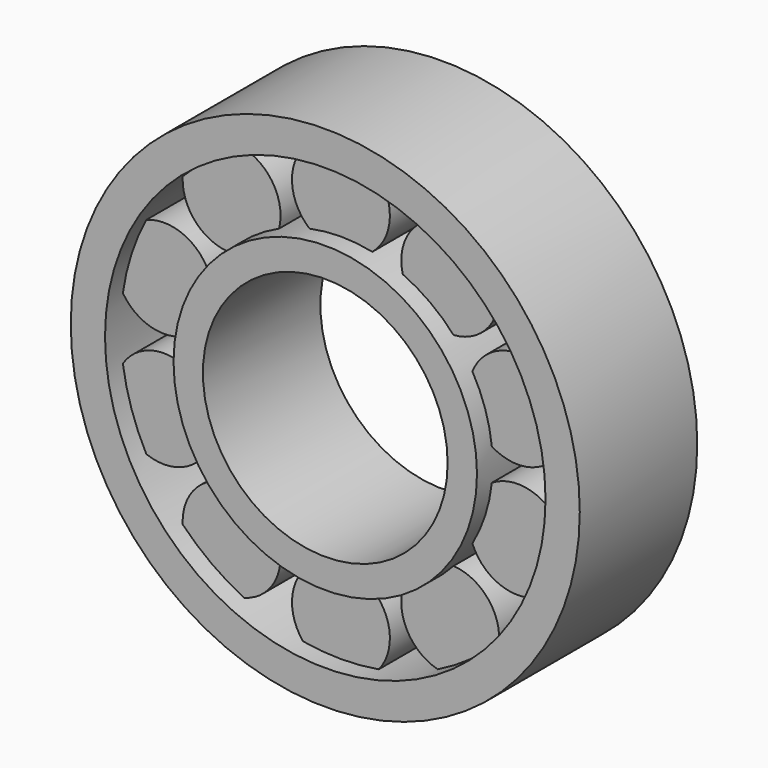
from build123d import *

# Parameters (mm, degrees)
F0_R     = 26
F0_R_2   = 22.5
F1_DEPTH = 15
F2_R     = 15.5
F2_R_2   = 12.5
F3_DEPTH = 15
F5_R     = 5
F6_DEPTH = 5.5


with BuildPart() as f1:
    # F0 (on Front) → F1 (new body)
    with BuildSketch(Plane.XZ):
        Circle(F0_R)
        Circle(F0_R_2, mode=Mode.SUBTRACT)
    extrude(amount=F1_DEPTH)



with BuildPart() as f3:
    # F2 (on Front) → F3 (new body)
    with BuildSketch(Plane.XZ):
        Circle(F2_R)
        Circle(F2_R_2, mode=Mode.SUBTRACT)
    extrude(amount=F3_DEPTH)


with BuildPart() as f1_1:
    add(f1.part)

    add(f3.part)  # F6 merges F3
    # F5 (on offset) → F6 (join, symmetric)
    with BuildSketch(Plane.XZ.offset(7.5)):
        with Locations((-11.1679197936, 15.3713228931)):
            Circle(F5_R)
        with Locations((0, 19)):
            Circle(F5_R)
        with Locations((-18.0700738096, 5.8713228931)):
            Circle(F5_R)
        with Locations((-18.0700738096, -5.8713228931)):
            Circle(F5_R)
        with Locations((-11.1679197936, -15.3713228931)):
            Circle(F5_R)
        with Locations((0, -19)):
            Circle(F5_R)
        with Locations((11.1679197936, -15.3713228931)):
            Circle(F5_R)
        with Locations((18.0700738096, -5.8713228931)):
            Circle(F5_R)
        with Locations((18.0700738096, 5.8713228931)):
            Circle(F5_R)
        with Locations((11.1679197936, 15.3713228931)):
            Circle(F5_R)
    extrude(amount=F6_DEPTH, both=True)


solid = f1_1.part
